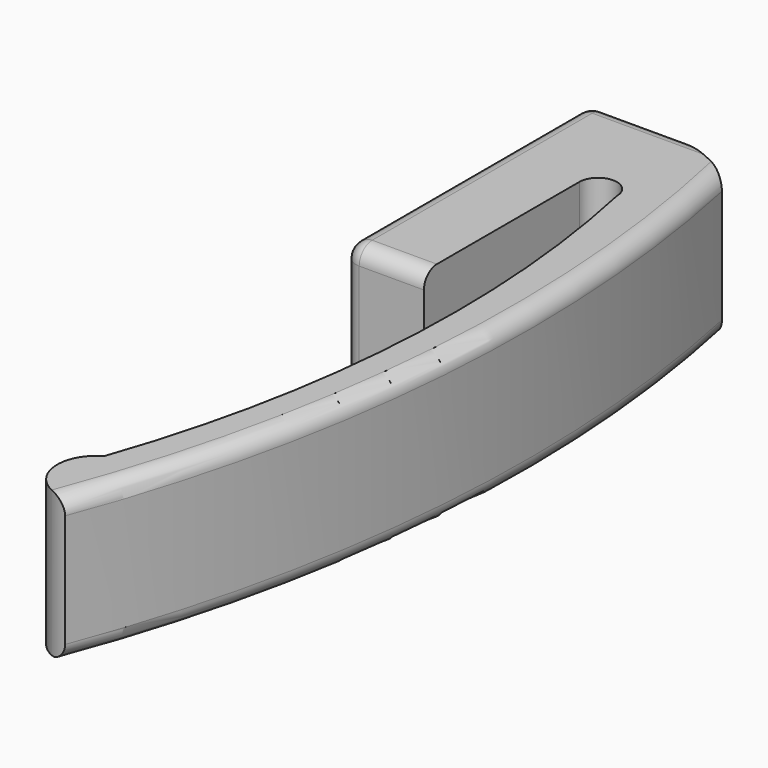
from build123d import *

# Parameters (mm, degrees)
PAD_DEPTH = 9
FILLET_R  = 1


with BuildPart() as part:
    # Sketch → Pad (new body)
    with BuildSketch(Plane.XY):
        with BuildLine():
            Line((0, 0), (0, 19))
            Line((0, 19), (5, 19))
            ThreePointArc((9.791817, 17.032919), (7.461019, 18.175071), (5, 19))
            ThreePointArc((6.222729, -29.25408), (11.317567, -6.36583), (9.791817, 17.032919))
            ThreePointArc((5, -24.689043), (3.859753, -27.440724), (6.222729, -29.25408))
            ThreePointArc((5, -24.689043), (8.692964, -6.505033), (7.329164, 12))
            ThreePointArc((7.329164, 12), (6.164582, 13.164582), (5, 12))
            Line((5, 0), (5, 12))
            Line((0, 0), (5, 0))
        make_face()
    extrude(amount=PAD_DEPTH)

    # Fillet
    fillet_edges = [part.edges().sort_by_distance(p)[0] for p in [
        (0, 0, 4.5),
        (0, 19, 4.5),
        (0, 9.5, 0),
        (0, 9.5, 9),
        (2.5, 19, 9),
        (2.5, 19, 0),
        (2.5, 0, 0),
        (2.5, 0, 9),
        (11.317567, -6.36583, 9),
        (11.317567, -6.36583, 0),
    ]]
    fillet(fillet_edges, radius=FILLET_R)


solid = part.part
